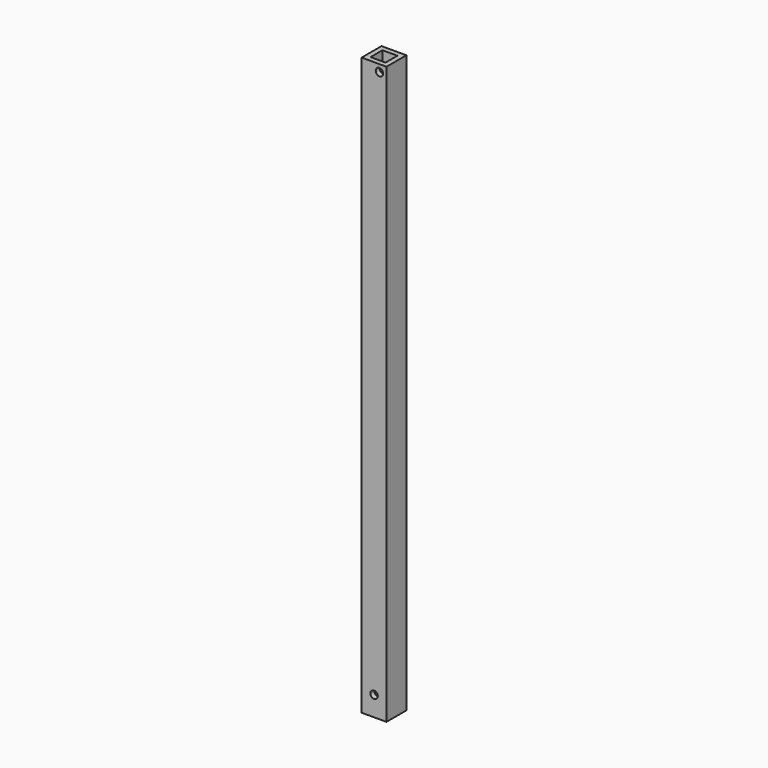
from build123d import *

# Parameters (mm, degrees)
F0_W     = 31.75
F0_H     = 31.75
F0_W_2   = 19.05
F0_H_2   = 19.05
F1_DEPTH = 736.6
F2_R     = 4.7625
F3_DEPTH = 31.751
F5_DEPTH = 31.751


with BuildPart() as f1:
    # F0 (on Top) → F1 (new body)
    with BuildSketch(Plane.XY):
        with Locations((15.875, 15.875)):
            Rectangle(F0_W, F0_H)
        with Locations((15.875, 15.875)):
            Rectangle(F0_W_2, F0_H_2, mode=Mode.SUBTRACT)
    extrude(amount=F1_DEPTH)

    # F2 (on face) → F3 (cut, through all)
    with BuildSketch(Plane.XZ):
        with Locations((15.875, 25.4)):
            Circle(F2_R)
    extrude(amount=-F3_DEPTH, mode=Mode.SUBTRACT)

    # F4 (on face) → F5 (cut, through all)
    with BuildSketch(Plane.XZ):
        with BuildLine():
            ThreePointArc((27.532244, 727.619744), (27.16972, 729.442274), (26.13734, 730.98734))
            ThreePointArc((26.13734, 730.98734), (18.369768, 725.797214), (27.532244, 727.619744))
        make_face()
    extrude(amount=-F5_DEPTH, mode=Mode.SUBTRACT)


solid = f1.part
